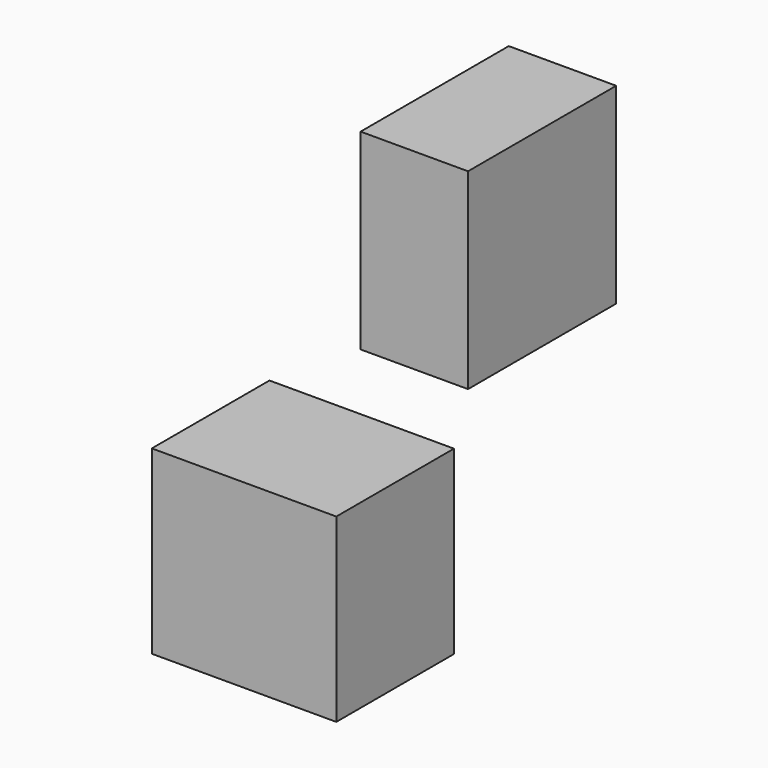
from build123d import *

# Parameters (mm, degrees)
F1_W     = 127
F1_H     = 131.529303
F2_DEPTH = 73.66
F0_W     = 126.515791
F0_H     = 123.998083
F3_DEPTH = 100.838


with BuildPart() as f2:
    # F1 (on Right) → F2 (new body)
    with BuildSketch(Plane.YZ):
        with Locations((63.5, 164.78607)):
            Rectangle(F1_W, F1_H)
    extrude(amount=F2_DEPTH)


with BuildPart() as f3:
    # F0 (on Front) → F3 (new body)
    with BuildSketch(Plane.XZ):
        with Locations((0.75011, -2.033781)):
            Rectangle(F0_W, F0_H)
    extrude(amount=F3_DEPTH)


solid = Compound([f2.part, f3.part])
